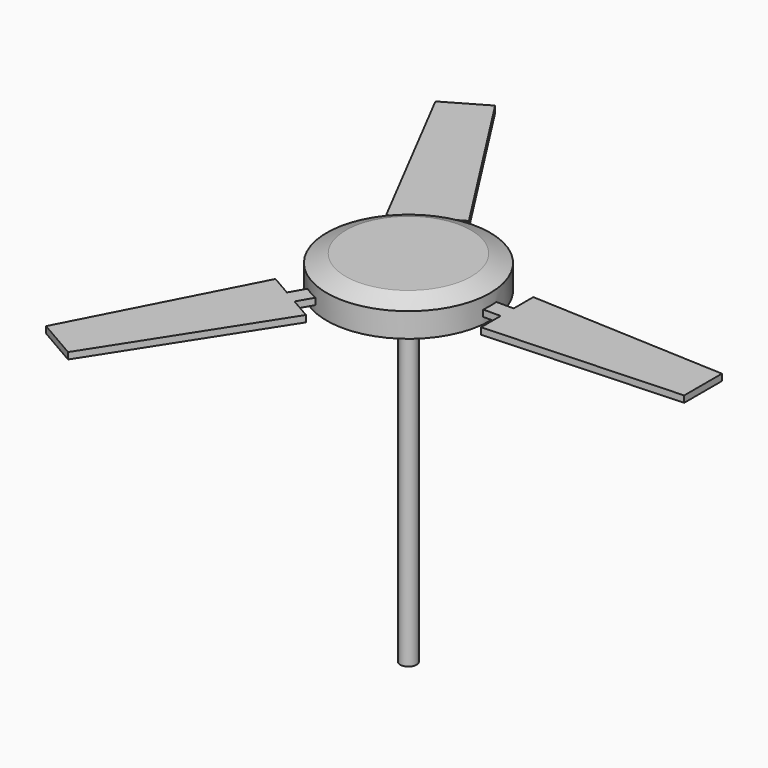
from build123d import *

# Parameters (mm, degrees)
F0_R     = 63.5
F1_DEPTH = 25.4
F6_DEPTH = 5.08
F7_R     = 6.35
F8_DEPTH = 254
F9_DEPTH = 12.7


with BuildPart() as f1:
    # F0 (on Top) → F1 (new body)
    with BuildSketch(Plane.XY):
        Circle(F0_R)
    extrude(amount=F1_DEPTH)

    # F2 (on Front) → F3 (revolve, cut)
    with BuildSketch(Plane.XZ):
        Polygon((69.119722, 45.064148), (37.484989, 30.330164), (69.119722, 16.462883), align=None)
    revolve(axis=Axis((0, 0, 8.879215), (0, 0, -1)), mode=Mode.SUBTRACT)

    # F5 (on offset) → F6 (join)
    with BuildSketch(Plane.XY.offset(5.08)):
        Polygon((76.726988, 6.35), (61.486988, 6.35), (61.486988, -6.35), (76.726988, -6.35), (76.726988, -25.4), (228.96282, -18.328116), (228.96282, 18.328116), (76.726988, 25.4), align=None)
        Polygon((-43.862755, 63.272521), (-36.242755, 50.074294), (-25.244233, 56.424294), (-32.864233, 69.622521), (-16.366449, 79.147521), (-98.608796, 207.451677), (-130.354024, 189.123561), (-60.360539, 53.747521), align=None)
        Polygon((-32.864233, -69.622521), (-25.244233, -56.424294), (-36.242755, -50.074294), (-43.862755, -63.272521), (-60.360539, -53.747521), (-130.354024, -189.123561), (-98.608796, -207.451677), (-16.366449, -79.147521), align=None)
    extrude(amount=F6_DEPTH)

    # F7 (on Top) → F9 (cut)
    with BuildSketch(Plane.XY):
        Circle(F7_R)
    extrude(amount=F9_DEPTH, mode=Mode.SUBTRACT)


with BuildPart() as f8:
    # F7 (on Top) → F8 (new body)
    with BuildSketch(Plane.XY):
        Circle(F7_R)
    extrude(amount=-F8_DEPTH)


solid = Compound([f1.part, f8.part])
